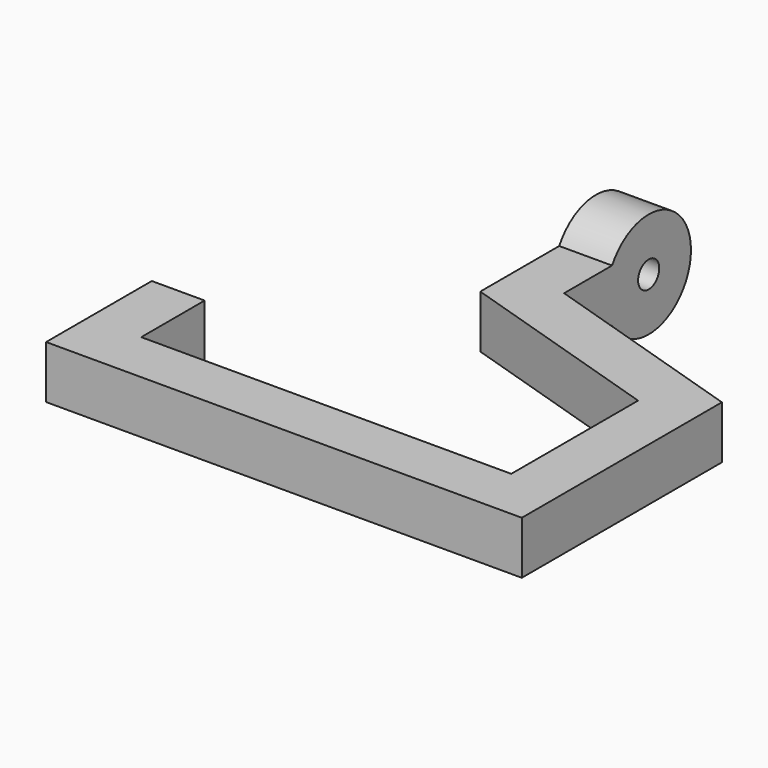
from build123d import *

# Parameters (mm, degrees)
F1_DEPTH = 5
F2_R     = 2.5
F3_DEPTH = 5


with BuildPart() as f1:
    # F0 (on Top) → F1 (new body, symmetric)
    with BuildSketch(Plane.XY):
        Polygon((-45, -40), (0, -40), (45, -40), (45, 0), (45, 7.320508), (5, 20), (5, 31.33975), (-5, 31.33975), (-5, 12.679492), (35, 0), (35, -30), (-35, -30), (-35, -15), (-45, -15), align=None)
    extrude(amount=F1_DEPTH, both=True)

    # F2 (on Right) → F3 (join, symmetric)
    with BuildSketch(Plane.YZ):
        with BuildLine():
            Line((31.339746, 5), (31.339746, -5))
            ThreePointArc((31.339746, -5), (50, 0), (31.339746, 5))
        make_face()
        with Locations((40, 0)):
            Circle(F2_R, mode=Mode.SUBTRACT)
    extrude(amount=F3_DEPTH, both=True)


solid = f1.part
